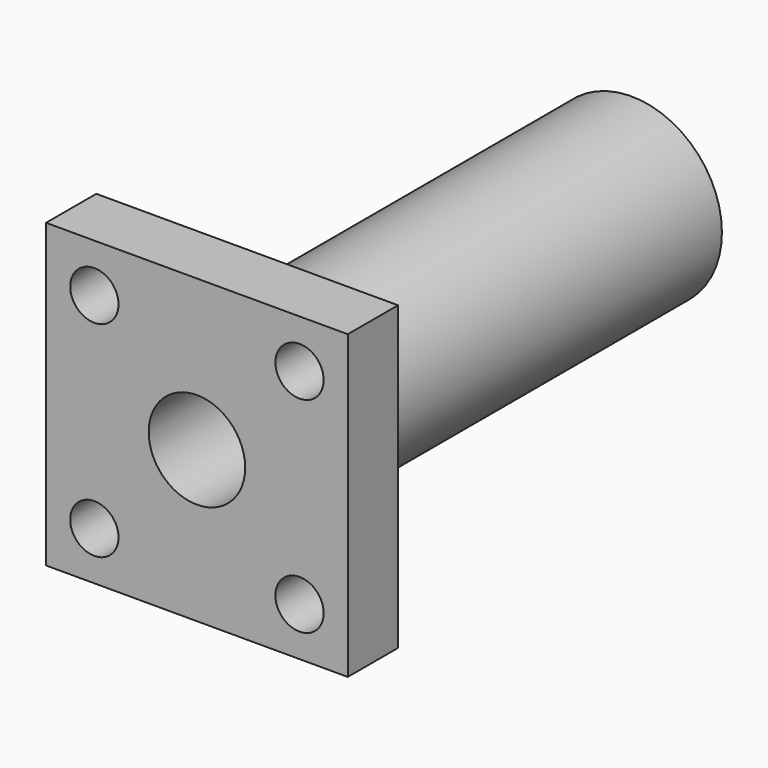
from build123d import *

# Parameters (mm, degrees)
CYLINDER006_R          = 2
CYLINDER006_DEPTH      = 10
CYLINDER007_R          = 2
CYLINDER007_DEPTH      = 10
CYLINDER052_R          = 2
CYLINDER052_DEPTH      = 10
CYLINDER055_R          = 2
CYLINDER055_DEPTH      = 10
CYLINDER054_R          = 4
CYLINDER054_DEPTH      = 60
CYLINDER053_R          = 7.5
CYLINDER053_DEPTH      = 40
BOX019_W               = 25
BOX019_H               = 25
BOX019_DEPTH           = 5.2
CUT004_PLACEMENT_ANGLE = 90


with BuildPart() as cylinder006:
    # Cylinder006 → Cylinder006 (new body)
    with BuildSketch(Plane(origin=(21, 21, -2), x_dir=(1, 0, 0), z_dir=(0, 0, 1))):
        Circle(CYLINDER006_R)
    extrude(amount=CYLINDER006_DEPTH)


with BuildPart() as cylinder007:
    # Cylinder007 → Cylinder007 (new body)
    with BuildSketch(Plane(origin=(21, 4, -2), x_dir=(1, 0, 0), z_dir=(0, 0, 1))):
        Circle(CYLINDER007_R)
    extrude(amount=CYLINDER007_DEPTH)


with BuildPart() as cylinder052:
    # Cylinder052 → Cylinder052 (new body)
    with BuildSketch(Plane(origin=(4, 21, -2), x_dir=(1, 0, 0), z_dir=(0, 0, 1))):
        Circle(CYLINDER052_R)
    extrude(amount=CYLINDER052_DEPTH)


with BuildPart() as cylinder055:
    # Cylinder055 → Cylinder055 (new body)
    with BuildSketch(Plane(origin=(4, 4, -2), x_dir=(1, 0, 0), z_dir=(0, 0, 1))):
        Circle(CYLINDER055_R)
    extrude(amount=CYLINDER055_DEPTH)


with BuildPart() as cylinder054:
    # Cylinder054 → Cylinder054 (new body)
    with BuildSketch(Plane(origin=(12.5, 12.5, -7), x_dir=(1, 0, 0), z_dir=(0, 0, 1))):
        Circle(CYLINDER054_R)
    extrude(amount=CYLINDER054_DEPTH)


with BuildPart() as cylinder053:
    # Cylinder053 → Cylinder053 (new body)
    with BuildSketch(Plane(origin=(12.5, 12.5, 5), x_dir=(1, 0, 0), z_dir=(0, 0, 1))):
        Circle(CYLINDER053_R)
    extrude(amount=CYLINDER053_DEPTH)


with BuildPart() as cut004:
    # Box019 → Box019 (new body)
    with BuildSketch(Plane.XY):
        with Locations((12.5, 12.5)):
            Rectangle(BOX019_W, BOX019_H)
    extrude(amount=BOX019_DEPTH)

    # Fusion022: union Cylinder053
    add(cylinder053.part)

    # Cut: cut Cylinder054
    add(cylinder054.part, mode=Mode.SUBTRACT)

    # Cut001: cut Cylinder055
    add(cylinder055.part, mode=Mode.SUBTRACT)

    # Cut002: cut Cylinder052
    add(cylinder052.part, mode=Mode.SUBTRACT)

    # Cut003: cut Cylinder007
    add(cylinder007.part, mode=Mode.SUBTRACT)

    # Cut004: cut Cylinder006
    add(cylinder006.part, mode=Mode.SUBTRACT)


with BuildPart() as cut004_1:
    # Cut004 placement: moved
    add(cut004.part.moved(Location((-12.5, 120, 12.5))).rotate(Axis((-12.5, 120, 12.5), (-1, 0, 0)), CUT004_PLACEMENT_ANGLE))


solid = cut004_1.part
